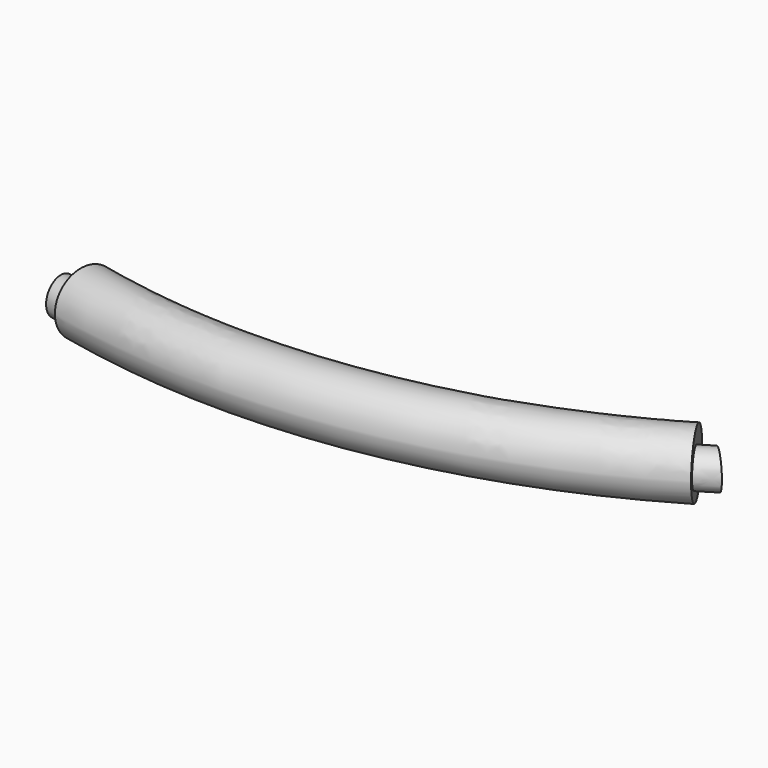
from build123d import *

# Parameters (mm, degrees)
SKETCH042_R      = 4
EXTRUDE025_DEPTH = 30
SKETCH040_R      = 7


with BuildPart() as sweep010:
    # Sweep010: sweep along a path in Sketch
    with BuildLine(Plane.XY) as sweep010_path:
        ThreePointArc((0, 0), (65.583227, -3.22849), (127, 20))
    # Sketch042 → Sweep010 (sweep)
    with BuildSketch(Plane(origin=(0, 0, 0), x_dir=(0, -1, 0), z_dir=(-1, 0, 0))):
        Circle(SKETCH042_R)
    sweep(path=sweep010_path.line)


with BuildPart() as sweep010_1:
    # Sweep010 placement: moved
    add(sweep010.part.moved(Location((0, -2, 0))))


with BuildPart() as extrude025:
    # Sketch041 → Extrude025 (new body)
    with BuildSketch(Plane.XY.offset(-15)):
        Polygon((-8.268976, 21.973037), (10.121624, 21.973037), (-0.555824, -25), (-25.401805, -25), align=None)
        Polygon((105.81268, 45.885295), (155.276998, 45.885295), (207.473539, -4.114705), (135.506671, -4.114705), align=None)
    extrude(amount=EXTRUDE025_DEPTH)


with BuildPart() as motor_tube_outer002:
    # Sweep009: sweep along a path in Sketch
    with BuildLine(Plane.XY) as sweep009_path:
        ThreePointArc((0, 0), (65.583227, -3.22849), (127, 20))
    # Sketch040 → Sweep009 (sweep)
    with BuildSketch(Plane(origin=(0, 0, 0), x_dir=(0, -1, 0), z_dir=(-1, 0, 0))):
        Circle(SKETCH040_R)
    sweep(path=sweep009_path.line)

    # Cut009: cut Extrude025
    add(extrude025.part, mode=Mode.SUBTRACT)

    # Fusion009: union Sweep010
    add(sweep010_1.part)


with BuildPart() as motor_tube_outer002_1:
    # Fusion009 placement: moved
    add(motor_tube_outer002.part.moved(Location((3, 1, 0))))


solid = motor_tube_outer002_1.part
